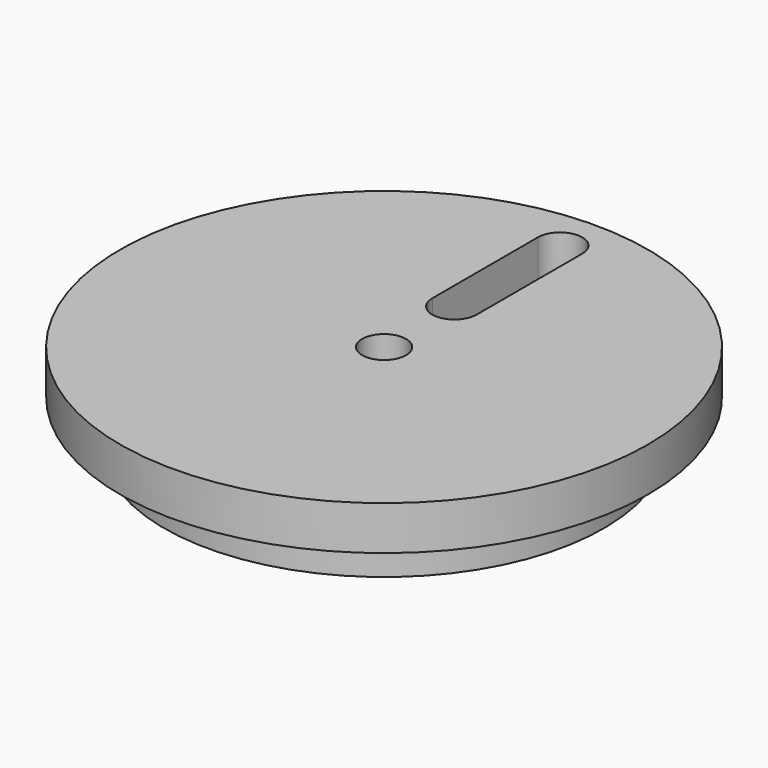
from build123d import *

# Parameters (mm, degrees)
F0_R     = 38.1
F1_DEPTH = 12.7
F2_R     = 38.1
F2_R_2   = 31.75
F3_DEPTH = 6.35
F4_R     = 3.175
F5_DEPTH = 12.701
F7_DEPTH = 12.701


with BuildPart() as f1:
    # F0 (on Top) → F1 (new body)
    with BuildSketch(Plane.XY):
        Circle(F0_R)
    extrude(amount=F1_DEPTH)

    # F2 (on face) → F3 (cut)
    with BuildSketch(Plane(origin=(0, 0, 0), x_dir=(1, 0, 0), z_dir=(0, 0, -1))):
        Circle(F2_R)
        Circle(F2_R_2, mode=Mode.SUBTRACT)
    extrude(amount=-F3_DEPTH, mode=Mode.SUBTRACT)

    # F4 (on face) → F5 (cut, through all)
    with BuildSketch(Plane.XY.offset(12.7)):
        Circle(F4_R)
    extrude(amount=-F5_DEPTH, mode=Mode.SUBTRACT)

    # F6 (on face) → F7 (cut, through all)
    with BuildSketch(Plane.XY.offset(12.7)):
        with BuildLine():
            Line((-3.2004, 31.75), (-3.2004, 12.7))
            ThreePointArc((-3.2004, 12.7), (0, 9.4996), (3.2004, 12.7))
            Line((3.2004, 12.7), (3.2004, 31.75))
            ThreePointArc((3.2004, 31.75), (0, 34.9504), (-3.2004, 31.75))
        make_face()
    extrude(amount=-F7_DEPTH, mode=Mode.SUBTRACT)


solid = f1.part
